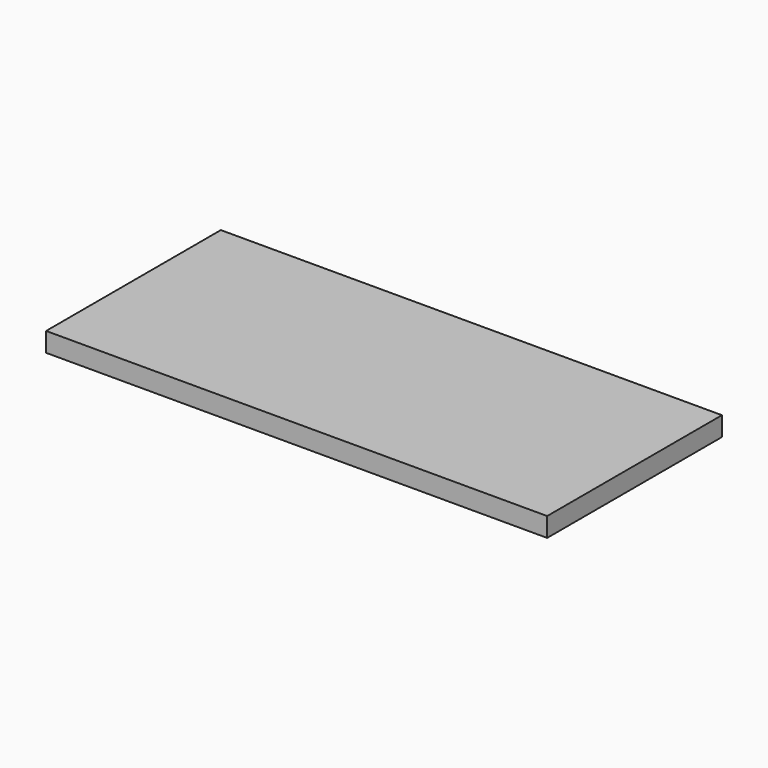
from build123d import *

# Parameters (mm, degrees)
SKETCH_W  = 390
SKETCH_H  = 170
PAD_DEPTH = 15


with BuildPart() as part:
    # Sketch → Pad (new body)
    with BuildSketch(Plane.XY):
        with Locations((-195, 85)):
            Rectangle(SKETCH_W, SKETCH_H)
    extrude(amount=PAD_DEPTH)


solid = part.part
